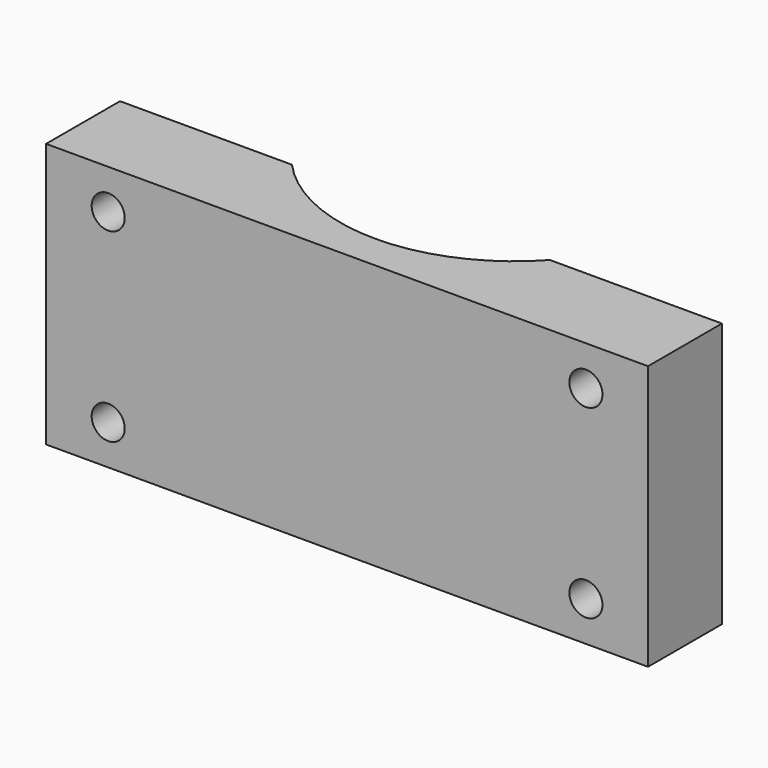
from build123d import *

# Parameters (mm, degrees)
F0_W     = 144.4752
F0_H     = 63.5254
F1_DEPTH = 22.1742
F2_R     = 3.96875
F3_DEPTH = 22.1752
F5_DEPTH = 63.5264
F7_DEPTH = 15.7988
F9_DEPTH = 15.7988


with BuildPart() as f1:
    # F0 (on Front) → F1 (new body)
    with BuildSketch(Plane.XZ):
        Rectangle(F0_W, F0_H)
    extrude(amount=F1_DEPTH)

    # F2 (on face) → F3 (cut, through all)
    with BuildSketch(Plane.XZ.offset(22.1742)):
        with Locations((-57.3278, 22.2377)):
            Circle(F2_R)
        with Locations((-57.3278, -22.2377)):
            Circle(F2_R)
        with Locations((57.3278, -22.2377)):
            Circle(F2_R)
        with Locations((57.3278, 22.2377)):
            Circle(F2_R)
    extrude(amount=-F3_DEPTH, mode=Mode.SUBTRACT)

    # F4 (on face) → F5 (cut, through all)
    with BuildSketch(Plane(origin=(0, 0, -31.7627), x_dir=(1, 0, 0), z_dir=(0, 0, -1))):
        with BuildLine():
            ThreePointArc((30.9626, 0), (16.932301, 10.1335), (0, 13.716))
            ThreePointArc((0, 13.716), (-16.932301, 10.1335), (-30.9626, 0))
            Line((-30.9626, 0), (30.9626, 0))
        make_face()
    extrude(amount=-F5_DEPTH, mode=Mode.SUBTRACT)

    # F6 (on face) → F7 (cut)
    with BuildSketch(Plane(origin=(0, 0, 0), x_dir=(-1, 0, 0), z_dir=(0, 1, 0))):
        with BuildLine():
            ThreePointArc((-40.720254, 0), (-55.81231, -0.75452), (-40.7035, -0.50292))
            ThreePointArc((-40.7035, -0.50292), (-40.70769, -0.25132), (-40.720254, 0))
        make_face()
    extrude(amount=-F7_DEPTH, mode=Mode.SUBTRACT)

    # F8 (on face) → F9 (cut)
    with BuildSketch(Plane(origin=(0, 0, 0), x_dir=(-1, 0, 0), z_dir=(0, 1, 0))):
        with BuildLine():
            ThreePointArc((40.720254, 0), (48.0084, -8.05523), (55.8165, -0.50292))
            ThreePointArc((55.8165, -0.50292), (48.5116, 7.04939), (40.720254, 0))
        make_face()
    extrude(amount=-F9_DEPTH, mode=Mode.SUBTRACT)


solid = f1.part
